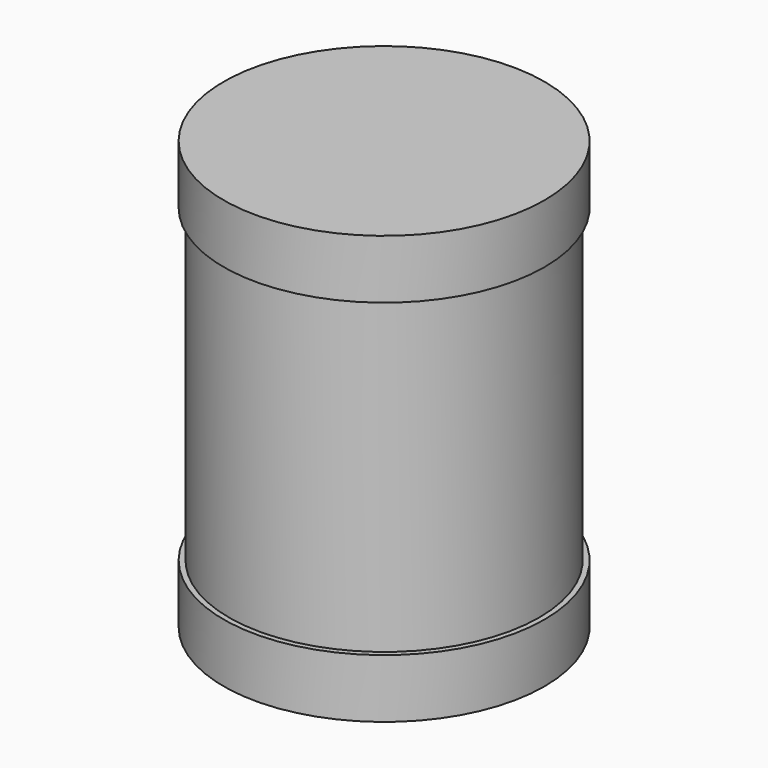
from build123d import *

# Parameters (mm, degrees)
F0_R     = 3.81
F0_R_2   = 3.683
F1_DEPTH = 5.08
F2_DEPTH = 3.683


with BuildPart() as f1:
    # F0 (on Top) → F1 (new body, symmetric)
    with BuildSketch(Plane.XY):
        Circle(F0_R)
        Circle(F0_R_2, mode=Mode.SUBTRACT)
        Circle(F0_R_2)
    extrude(amount=F1_DEPTH, both=True)

    # F0 (on Top) → F2 (cut, symmetric)
    with BuildSketch(Plane.XY):
        Circle(F0_R)
        Circle(F0_R_2, mode=Mode.SUBTRACT)
    extrude(amount=F2_DEPTH, both=True, mode=Mode.SUBTRACT)


solid = f1.part
